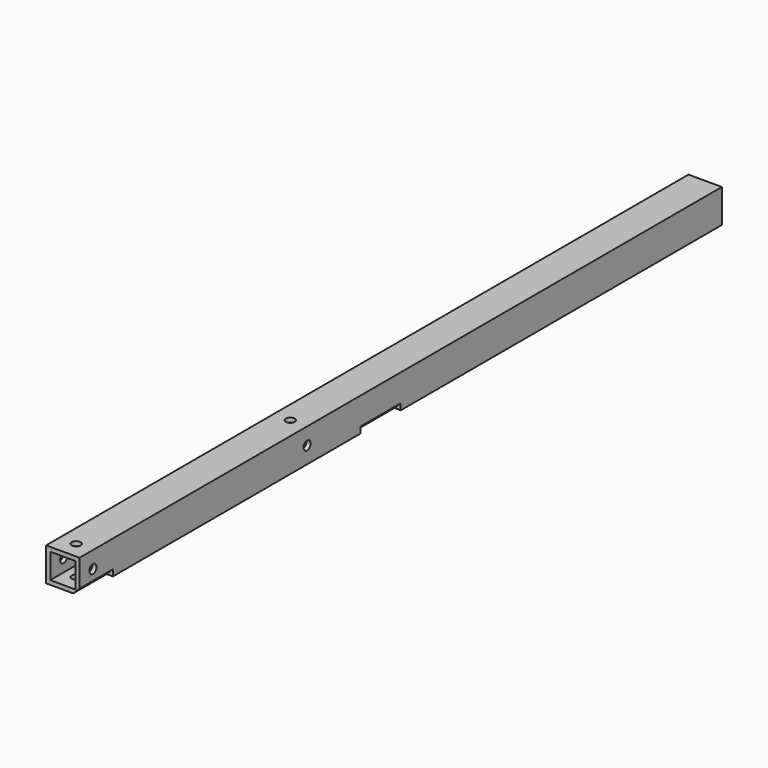
from build123d import *

# Parameters (mm, degrees)
F0_W      = 25.4
F0_H      = 25.4
F0_W_2    = 19.05
F0_H_2    = 19.05
F1_DEPTH  = 304.8
F2_R      = 3.3782
F3_DEPTH  = 25.4
F4_R      = 3.3782
F5_DEPTH  = 25.4
F7_DEPTH  = 31.75
F10_DEPTH = 38.1


with BuildPart() as f1:
    # F0 (on Front) → F1 (new body, symmetric)
    with BuildSketch(Plane.XZ):
        Rectangle(F0_W, F0_H)
        Rectangle(F0_W_2, F0_H_2, mode=Mode.SUBTRACT)
    extrude(amount=F1_DEPTH, both=True)

    # F2 (on face) → F3 (cut, through all)
    with BuildSketch(Plane.XY.offset(12.7)):
        with Locations((0, -292.1)):
            Circle(F2_R)
        with Locations((0, -88.9)):
            Circle(F2_R)
    extrude(amount=-F3_DEPTH, mode=Mode.SUBTRACT)

    # F4 (on face) → F5 (cut, through all)
    with BuildSketch(Plane.YZ.offset(12.7)):
        with Locations((-292.1, 0)):
            Circle(F4_R)
        with Locations((-88.9, 0)):
            Circle(F4_R)
    extrude(amount=-F5_DEPTH, mode=Mode.SUBTRACT)

    # F6 (on face) → F7 (cut)
    with BuildSketch(Plane.XZ.offset(304.8)):
        Polygon((12.7, -12.7), (12.7, -7.9375), (7.9375, -12.7), align=None)
    extrude(amount=-F7_DEPTH, mode=Mode.SUBTRACT)

    # F9 (on offset) → F10 (cut)
    with BuildSketch(Plane.XZ.offset(38.1)):
        Polygon((12.7, -12.7), (12.7, -7.9375), (7.9375, -12.7), align=None)
    extrude(amount=-F10_DEPTH, mode=Mode.SUBTRACT)


solid = f1.part
